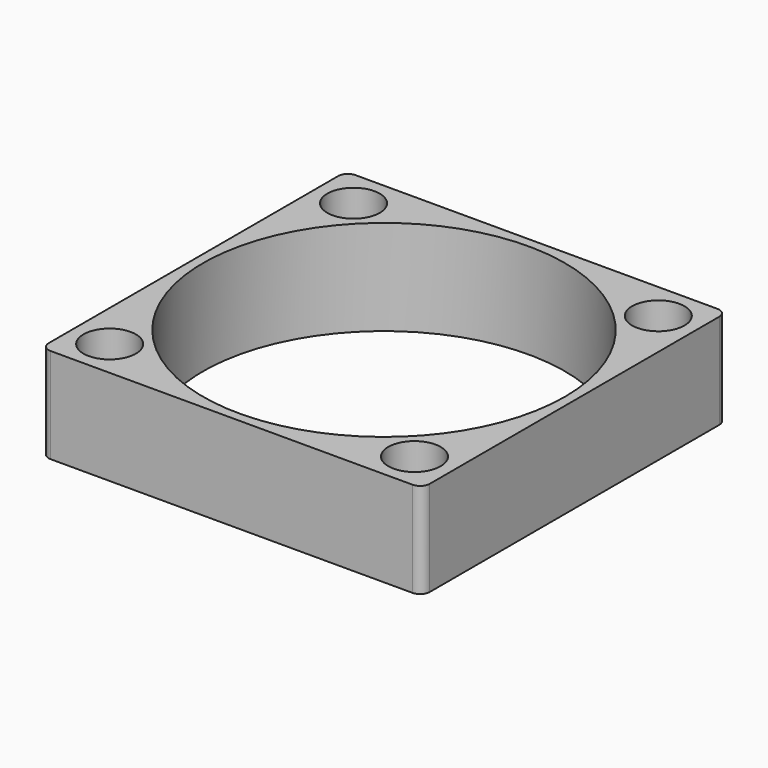
from build123d import *

# Parameters (mm, degrees)
F0_R     = 19
F1_DEPTH = 10
F2_D     = 5.5


with BuildPart() as f1:
    # F0 (on Top) → F1 (new body)
    with BuildSketch(Plane.XY):
        with BuildLine():
            Line((-19, -20), (19, -20))
            ThreePointArc((19, -20), (19.7071067812, -19.7071067812), (20, -19))
            Line((20, -19), (20, 19))
            ThreePointArc((20, 19), (19.7071067812, 19.7071067812), (19, 20))
            Line((19, 20), (-19, 20))
            ThreePointArc((-19, 20), (-19.7071067812, 19.7071067812), (-20, 19))
            Line((-20, 19), (-20, -19))
            ThreePointArc((-20, -19), (-19.7071067812, -19.7071067812), (-19, -20))
        make_face()
        Circle(F0_R, mode=Mode.SUBTRACT)
    extrude(amount=F1_DEPTH)

    # F2 (through all)
    with Locations(Plane(origin=(0, 0, 0), x_dir=(1, 0, 0), z_dir=(0, 0, -1))):
        with Locations((-16, -16), (16, -16), (16, 16), (-16, 16)):
            Hole(F2_D / 2)


solid = f1.part
